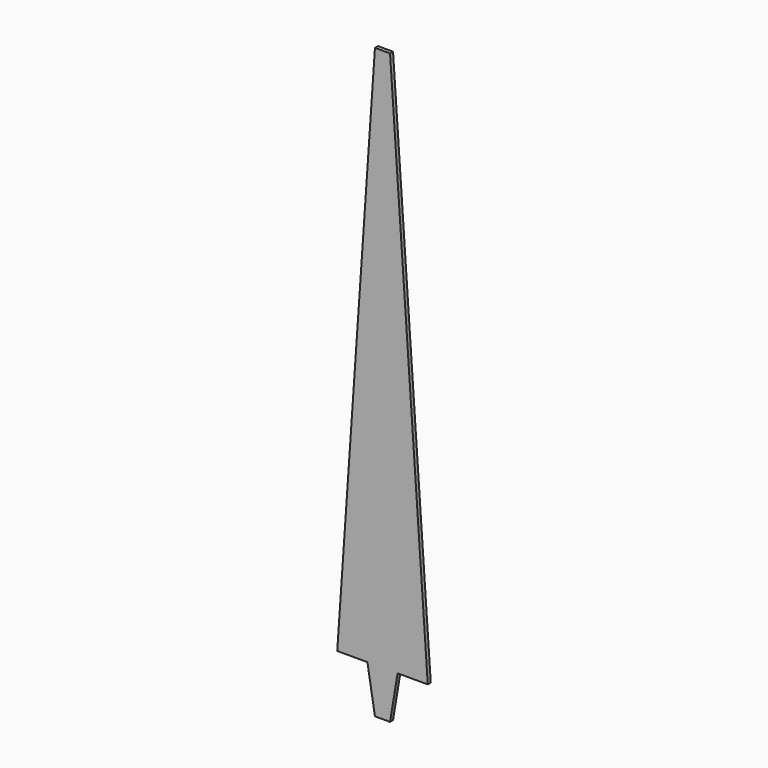
from build123d import *

# Parameters (mm, degrees)
F1_DEPTH = 6.35


with BuildPart() as f1:
    # F0 (on Front) → F1 (new body)
    with BuildSketch(Plane.XZ):
        Polygon((0, -37.055038), (0, 877.344962), (-12.7, 877.344962), (-76.2, -37.055038), (-25.4, -37.055038), align=None)
        Polygon((12.7, 877.344962), (0, 877.344962), (0, -37.055038), (25.4, -37.055038), (76.2, -37.055038), align=None)
        Polygon((0, -113.255038), (0, -37.055038), (-25.4, -37.055038), (-12.7, -113.255038), align=None)
        Polygon((25.4, -37.055038), (0, -37.055038), (0, -113.255038), (12.7, -113.255038), align=None)
    extrude(amount=F1_DEPTH)


solid = f1.part
